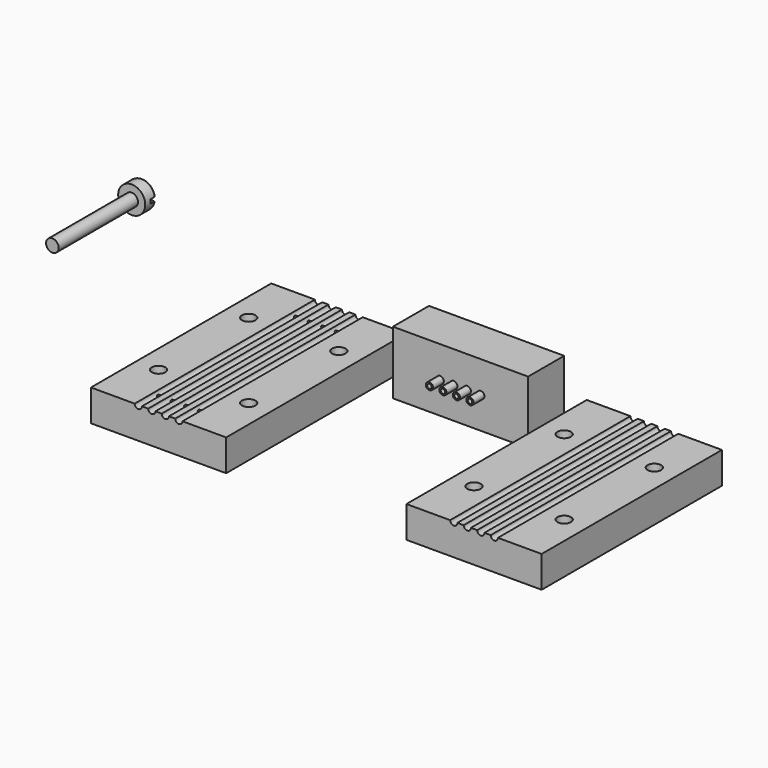
from build123d import *

# Parameters (mm, degrees)
F1_DEPTH  = 50
F2_R      = 0.8
F2_R_2    = 0.5
F3_DEPTH  = 13
F4_DEPTH  = 10
F5_R      = 3
F5_R_2    = 1.4
F6_DEPTH  = 3
F7_DEPTH  = 25
F9_DEPTH  = 1.5
F10_R     = 0.5
F11_R     = 1.5
F11_R_2   = 0.5
F13_DEPTH = 25
F14_R     = 1.5
F15_DEPTH = 25


with BuildPart() as f1:
    # F0 (on Front) → F1 (new body)
    with BuildSketch(Plane.XZ):
        with BuildLine():
            Line((0, 7), (0, 0))
            Line((0, 0), (30, 0))
            Line((30, 0), (30, 7))
            Line((30, 7), (20.3, 7))
            ThreePointArc((20.3, 7), (19.5, 6.2), (18.7, 7))
            Line((18.7, 7), (17.3, 7))
            ThreePointArc((17.3, 7), (16.5, 6.2), (15.7, 7))
            Line((15.7, 7), (14.3, 7))
            ThreePointArc((14.3, 7), (13.5, 6.2), (12.7, 7))
            Line((12.7, 7), (11.3, 7))
            ThreePointArc((11.3, 7), (10.5, 6.2), (9.7, 7))
            Line((9.7, 7), (0, 7))
        make_face()
    extrude(amount=F1_DEPTH)


with BuildPart() as f3:
    # F2 (on Front) → F3 (new body)
    with BuildSketch(Plane.XZ):
        with Locations((54.5, 7)):
            Circle(F2_R)
        with Locations((54.5, 7)):
            Circle(F2_R_2, mode=Mode.SUBTRACT)
    extrude(amount=F3_DEPTH)



with BuildPart() as f3b:
    # F2 (on Front) → F3, piece 2 (new body)
    with BuildSketch(Plane.XZ):
        with Locations((51.5, 7)):
            Circle(F2_R)
        with Locations((51.5, 7)):
            Circle(F2_R_2, mode=Mode.SUBTRACT)
    extrude(amount=F3_DEPTH)


with BuildPart() as f3c:
    # F2 (on Front) → F3, piece 3 (new body)
    with BuildSketch(Plane.XZ):
        with Locations((48.5, 7)):
            Circle(F2_R)
        with Locations((48.5, 7)):
            Circle(F2_R_2, mode=Mode.SUBTRACT)
    extrude(amount=F3_DEPTH)


with BuildPart() as f3d:
    # F2 (on Front) → F3, piece 4 (new body)
    with BuildSketch(Plane.XZ):
        with Locations((45.5, 7)):
            Circle(F2_R)
        with Locations((45.5, 7)):
            Circle(F2_R_2, mode=Mode.SUBTRACT)
    extrude(amount=F3_DEPTH)


with BuildPart() as f3_1:
    add(f3.part)

    add(f3b.part)  # F4 merges F3b

    add(f3c.part)  # F4 merges F3c

    add(f3d.part)  # F4 merges F3d
    # F2 (on Front) → F4 (join)
    with BuildSketch(Plane.XZ):
        Polygon((35, 7), (35, 0), (65, 0), (65, 7), (65, 14), (35, 14), align=None)
        with Locations((45.5, 7)):
            Circle(F2_R, mode=Mode.SUBTRACT)
        with Locations((48.5, 7)):
            Circle(F2_R, mode=Mode.SUBTRACT)
        with Locations((51.5, 7)):
            Circle(F2_R, mode=Mode.SUBTRACT)
        with Locations((54.5, 7)):
            Circle(F2_R, mode=Mode.SUBTRACT)
    extrude(amount=F4_DEPTH)


with BuildPart() as f6:
    # F5 (on Front) → F6 (new body)
    with BuildSketch(Plane.XZ):
        with Locations((-28.5615846515, 15.2765717357)):
            Circle(F5_R)
        with Locations((-28.5615846515, 15.2765717357)):
            Circle(F5_R_2, mode=Mode.SUBTRACT)
        with Locations((-28.5615846515, 15.2765717357)):
            Circle(F5_R_2)
    extrude(amount=F6_DEPTH)

    # F5 (on Front) → F7 (join)
    with BuildSketch(Plane.XZ):
        with Locations((-28.5615846515, 15.2765717357)):
            Circle(F5_R_2)
    extrude(amount=F7_DEPTH)

    # F8 (on face) → F9 (cut)
    with BuildSketch(Plane.XZ):
        with BuildLine():
            ThreePointArc((-29.8908109833, 14.8370750248), (-29.9615846515, 15.2765717357), (-29.8908109833, 15.7160684466))
            Line((-29.8908109833, 15.7160684466), (-31.5292171491, 15.7160684466))
            ThreePointArc((-31.5292171491, 15.7160684466), (-31.5615846515, 15.2765717357), (-31.5292171491, 14.8370750248))
            Line((-31.5292171491, 14.8370750248), (-29.8908109833, 14.8370750248))
        make_face()
        with BuildLine():
            ThreePointArc((-27.2323583197, 14.8370750248), (-27.1793913103, 15.0539923842), (-27.1615846515, 15.2765717357))
            ThreePointArc((-27.1615846515, 15.2765717357), (-27.1793913103, 15.4991510873), (-27.2323583197, 15.7160684466))
            Line((-27.2323583197, 15.7160684466), (-29.8908109833, 15.7160684466))
            ThreePointArc((-29.8908109833, 15.7160684466), (-29.9615846515, 15.2765717357), (-29.8908109833, 14.8370750248))
            Line((-29.8908109833, 14.8370750248), (-27.2323583197, 14.8370750248))
        make_face()
        with BuildLine():
            ThreePointArc((-27.2323583197, 15.7160684466), (-27.1793913103, 15.4991510873), (-27.1615846515, 15.2765717357))
            ThreePointArc((-27.1615846515, 15.2765717357), (-27.1793913103, 15.0539923842), (-27.2323583197, 14.8370750248))
            Line((-27.2323583197, 14.8370750248), (-25.5939521538, 14.8370750248))
            ThreePointArc((-25.5939521538, 14.8370750248), (-25.5696874697, 15.0562282459), (-25.5615846515, 15.2765717357))
            ThreePointArc((-25.5615846515, 15.2765717357), (-25.5696874697, 15.4969152256), (-25.5939521538, 15.7160684466))
            Line((-25.5939521538, 15.7160684466), (-27.2323583197, 15.7160684466))
        make_face()
    extrude(amount=F9_DEPTH, mode=Mode.SUBTRACT)

    # F10
    f10_edges = [f6.edges().sort_by_distance(p)[0] for p in [
        (-28.561585, 0, 15.716068),
        (-28.561585, 0, 18.276572),
        (-28.561585, 0, 12.276572),
        (-28.561585, 0, 14.837075),
    ]]
    fillet(f10_edges, radius=F10_R)


with BuildPart() as f12_1:
    # F12: copy of F1
    add(f1.part.moved(Location((70, 0, 0))))

    # F14 (on face) → F15 (cut)
    with BuildSketch(Plane(origin=(0, 0, 0), x_dir=(1, 0, 0), z_dir=(0, 0, -1))):
        with Locations((95, 37.5)):
            Circle(F14_R)
        with Locations((95, 12.5)):
            Circle(F14_R)
        with Locations((75, 37.5)):
            Circle(F14_R)
        with Locations((75, 12.5)):
            Circle(F14_R)
    extrude(amount=-F15_DEPTH, mode=Mode.SUBTRACT)


with BuildPart() as f1_1:
    add(f1.part)

    # F11 (on face) → F13 (cut)
    with BuildSketch(Plane(origin=(0, 0, 0), x_dir=(1, 0, 0), z_dir=(0, 0, -1))):
        with Locations((5, 12.5)):
            Circle(F11_R)
        with Locations((5, 37.5)):
            Circle(F11_R)
        with Locations((25, 12.5)):
            Circle(F11_R)
        with Locations((25, 37.5)):
            Circle(F11_R)
        with Locations((10.5, 6)):
            Circle(F11_R_2)
        with Locations((10.5, 44)):
            Circle(F11_R_2)
        with Locations((13.5, 6)):
            Circle(F11_R_2)
        with Locations((13.5, 44)):
            Circle(F11_R_2)
        with Locations((16.5, 6)):
            Circle(F11_R_2)
        with Locations((16.5, 44)):
            Circle(F11_R_2)
        with Locations((19.5, 6)):
            Circle(F11_R_2)
        with Locations((19.5, 44)):
            Circle(F11_R_2)
    extrude(amount=-F13_DEPTH, mode=Mode.SUBTRACT)


solid = Compound([f3_1.part, f6.part, f12_1.part, f1_1.part])
